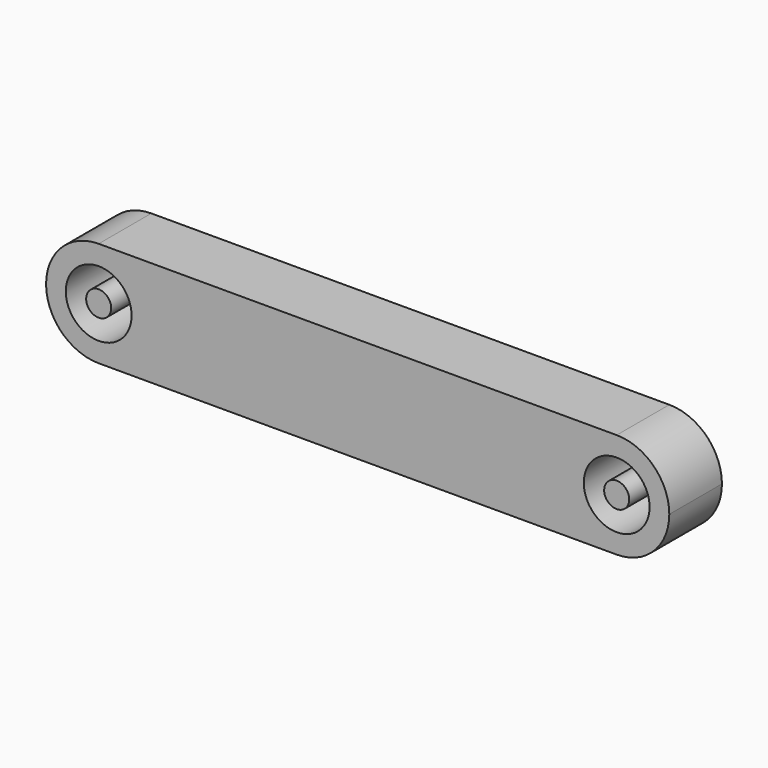
from build123d import *

# Parameters (mm, degrees)
F0_R     = 0.0985
F0_R_2   = 0.0375
F1_DEPTH = 0.197


with BuildPart() as f1:
    # F0 (on Front) → F1 (new body)
    with BuildSketch(Plane.XZ):
        with BuildLine():
            ThreePointArc((0, -0.1575), (0.111369, -0.111369), (0.1575, 0))
            ThreePointArc((0.1575, 0), (0.111369, 0.111369), (0, 0.1575))
            ThreePointArc((0, 0.1575), (-0.1575, 0), (0, -0.1575))
        make_face()
        Circle(F0_R, mode=Mode.SUBTRACT)
        with BuildLine():
            ThreePointArc((0, 0.1575), (0.111369, 0.111369), (0.1575, 0))
            ThreePointArc((0.1575, 0), (0.111369, -0.111369), (0, -0.1575))
            Line((0, -0.1575), (1.551, -0.1575))
            ThreePointArc((1.551, -0.1575), (1.3935, 0), (1.551, 0.1575))
            Line((1.551, 0.1575), (0, 0.1575))
        make_face()
        with BuildLine():
            ThreePointArc((1.7085, 0), (1.662369, 0.111369), (1.551, 0.1575))
            ThreePointArc((1.551, 0.1575), (1.3935, 0), (1.551, -0.1575))
            ThreePointArc((1.551, -0.1575), (1.662369, -0.111369), (1.7085, 0))
        make_face()
        with Locations((1.551, 0)):
            Circle(F0_R, mode=Mode.SUBTRACT)
        Circle(F0_R_2)
        with Locations((1.551, 0)):
            Circle(F0_R_2)
    extrude(amount=F1_DEPTH)


solid = f1.part
